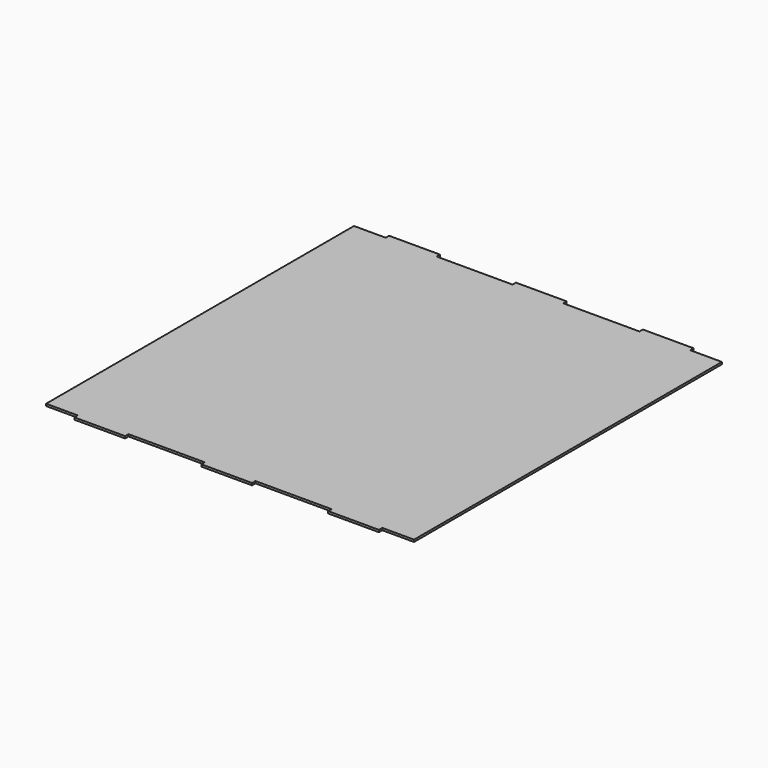
from build123d import *

# Parameters (mm, degrees)
F1_DEPTH = 3.175


with BuildPart() as f1:
    # F0 (on Top) → F1 (new body)
    with BuildSketch(Plane.XY):
        Polygon((228.6, -288.925), (276.225, -288.925), (276.225, 288.925), (228.6, 288.925), (228.6, 295.275), (152.4, 295.275), (152.4, 288.925), (38.1, 288.925), (38.1, 295.275), (-38.1, 295.275), (-38.1, 288.925), (-152.4, 288.925), (-152.4, 295.275), (-228.6, 295.275), (-228.6, 288.925), (-276.225, 288.925), (-276.225, -288.925), (-228.6, -288.925), (-228.6, -295.275), (-152.4, -295.275), (-152.4, -288.925), (-38.1, -288.925), (-38.1, -295.275), (38.1, -295.275), (38.1, -288.925), (152.4, -288.925), (152.4, -295.275), (228.6, -295.275), align=None)
    extrude(amount=F1_DEPTH)


solid = f1.part
